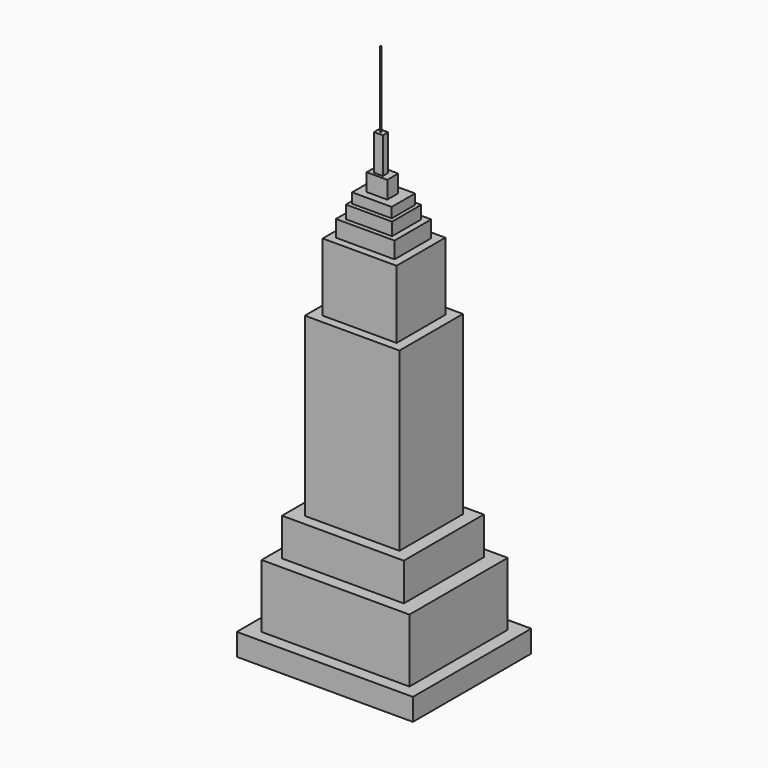
from build123d import *

# Parameters (mm, degrees)
F0_W      = 48.727892
F0_H      = 40.907368
F1_DEPTH  = 6.096
F2_W      = 40.907368
F2_H      = 33.989211
F3_DEPTH  = 17.526
F4_W      = 33.688422
F4_H      = 27.672633
F5_DEPTH  = 10.414
F6_W      = 26.168683
F6_H      = 21.957632
F7_DEPTH  = 48.768
F8_W      = 20.453684
F8_H      = 16.844212
F9_DEPTH  = 18.796
F10_W     = 16.216566
F10_H     = 12.691229
F11_DEPTH = 4.572
F12_W     = 12.783553
F12_H     = 10.076448
F13_DEPTH = 3.556
F14_W     = 10.95355
F14_H     = 8.082231
F15_DEPTH = 2.794
F16_W     = 5.690988
F16_H     = 3.793992
F17_DEPTH = 4.826
F18_W     = 2.453818
F18_H     = 1.859568
F19_DEPTH = 9.906
F21_R     = 0.161496
F22_DEPTH = 20.828


with BuildPart() as f1:
    # F0 (on Top) → F1 (new body)
    with BuildSketch(Plane.XY):
        with Locations((0.751972, -0.751974)):
            Rectangle(F0_W, F0_H)
    extrude(amount=F1_DEPTH)


with BuildPart() as f3:
    # F2 (on face) → F3 (new body)
    with BuildSketch(Plane.XY.offset(6.096)):
        with Locations((1.052763, -0.902368)):
            Rectangle(F2_W, F2_H)
    extrude(amount=F3_DEPTH)


with BuildPart() as f5:
    # F4 (on face) → F5 (new body)
    with BuildSketch(Plane.XY.offset(23.622)):
        with Locations((0.451183, -0.751974)):
            Rectangle(F4_W, F4_H)
    extrude(amount=F5_DEPTH)


with BuildPart() as f7:
    # F6 (on face) → F7 (new body)
    with BuildSketch(Plane.XY.offset(34.036)):
        with Locations((0.601578, -0.601579)):
            Rectangle(F6_W, F6_H)
    extrude(amount=F7_DEPTH)


with BuildPart() as f9:
    # F8 (on face) → F9 (new body)
    with BuildSketch(Plane.XY.offset(82.804)):
        with Locations((0.751973, -0.751974)):
            Rectangle(F8_W, F8_H)
    extrude(amount=F9_DEPTH)


with BuildPart() as f11:
    # F10 (on face) → F11 (new body)
    with BuildSketch(Plane.XY.offset(101.6)):
        with Locations((0.643044, -0.762294)):
            Rectangle(F10_W, F10_H)
    extrude(amount=F11_DEPTH)


with BuildPart() as f13:
    # F12 (on face) → F13 (new body)
    with BuildSketch(Plane.XY.offset(106.172)):
        with Locations((0.676776, -0.827171)):
            Rectangle(F12_W, F12_H)
    extrude(amount=F13_DEPTH)


with BuildPart() as f15:
    # F14 (on face) → F15 (new body)
    with BuildSketch(Plane.XY.offset(109.728)):
        with Locations((0.584138, -0.674785)):
            Rectangle(F14_W, F14_H)
    extrude(amount=F15_DEPTH)


with BuildPart() as f17:
    # F16 (on face) → F17 (new body)
    with BuildSketch(Plane.XY.offset(112.522)):
        with Locations((0.343883, -0.772364)):
            Rectangle(F16_W, F16_H)
    extrude(amount=F17_DEPTH)


with BuildPart() as f19:
    # F18 (on face) → F19 (new body)
    with BuildSketch(Plane.XY.offset(117.348)):
        with Locations((0.089556, -0.929784)):
            Rectangle(F18_W, F18_H)
    extrude(amount=F19_DEPTH)


with BuildPart() as f22:
    # F21 (on face) → F22 (new body)
    with BuildSketch(Plane.XY.offset(127.254)):
        with Locations((0, -0.892676)):
            Circle(F21_R)
    extrude(amount=F22_DEPTH)


solid = Compound([f1.part, f3.part, f5.part, f7.part, f9.part, f11.part, f13.part, f15.part, f17.part, f19.part, f22.part])
